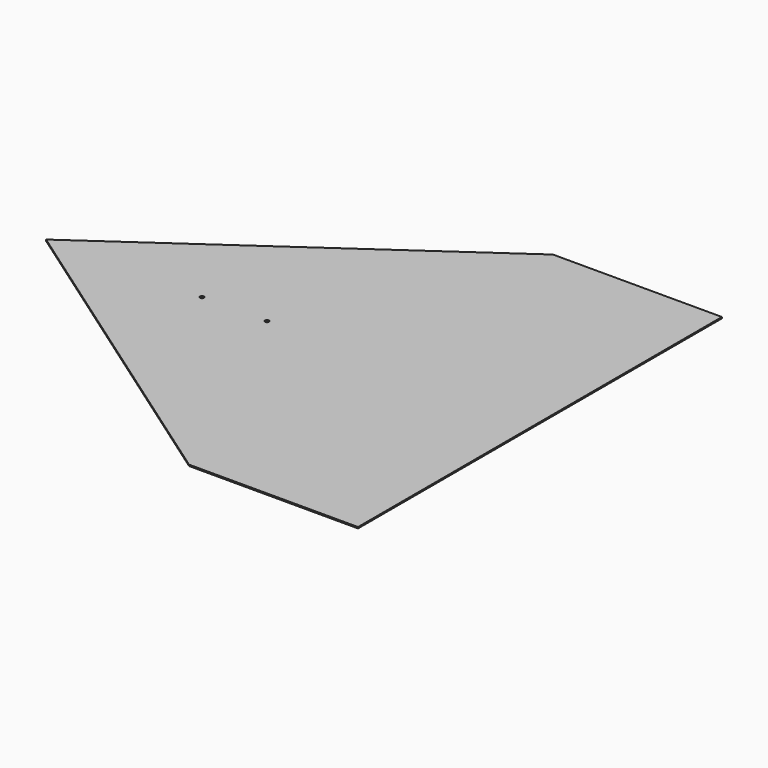
from build123d import *

# Parameters (mm, degrees)
F0_R     = 1.5
F1_DEPTH = 1


with BuildPart() as f1:
    # F0 (on Top) → F1 (new body)
    with BuildSketch(Plane.XY):
        Polygon((177.940473, 169.097283), (47.940473, 169.097283), (-202.059527, -5.902717), (47.940473, -180.902717), (177.940473, -180.902717), align=None)
        with Locations((-82.059527, -5.902717)):
            Circle(F0_R, mode=Mode.SUBTRACT)
        with Locations((-32.059527, -5.902717)):
            Circle(F0_R, mode=Mode.SUBTRACT)
    extrude(amount=F1_DEPTH)


solid = f1.part
